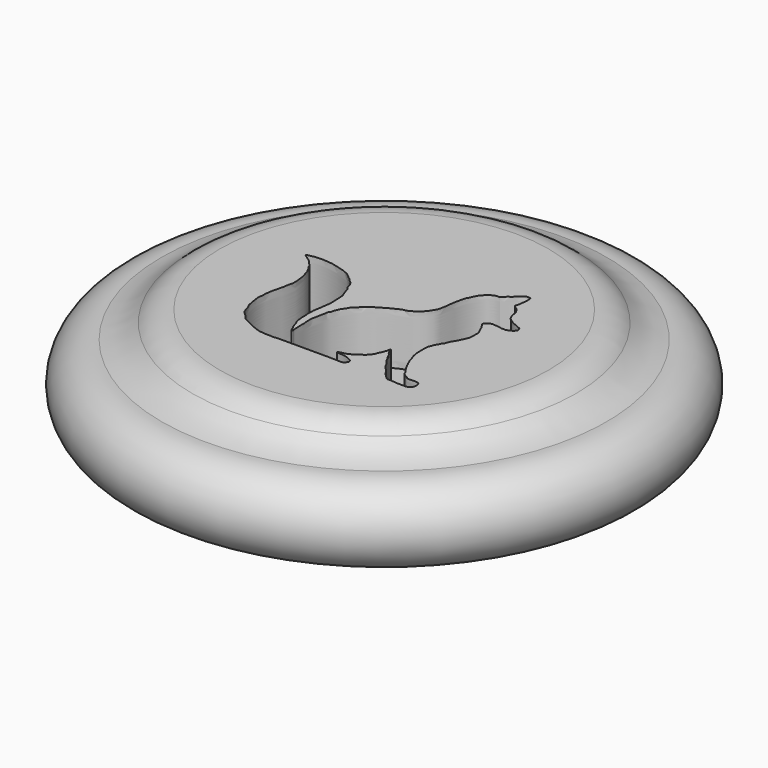
from build123d import *

# Parameters (mm, degrees)
F3_DEPTH = 5.08


with BuildPart() as f1:
    # F0 (on Front) → F1 (revolve)
    with BuildSketch(Plane.XZ):
        with BuildLine():
            ThreePointArc((0, 7.6084310639), (-4.0198670689, 3.8042155319), (0, 0))
            Line((0, 0), (21.59, 0))
            Line((21.59, 0), (21.59, 10.16))
            Line((21.59, 10.16), (5.6540897761, 10.16))
            ThreePointArc((5.6540897761, 10.16), (4.2001552919, 9.8716721193), (2.9662784709, 9.0503278297))
            ThreePointArc((2.9662784709, 9.0503278297), (1.6034140011, 8.0819494945), (0, 7.6084310639))
        make_face()
    revolve(axis=Axis((21.59, 0, 5.08), (0, 0, 1)))

    # F2 (on face) → F3 (cut)
    with BuildSketch(Plane.XY.offset(10.16)):
        with BuildLine():
            add(Edge.make_bspline(
                [(18.0297233164, -8.7346183136), (18.1643601349, -8.7041673221), (18.9693362148, -8.685781853), (24.1132707655, -8.6955881173), (24.5645711714, -8.7765729694), (24.9024322454, -8.4013178101), (24.8087548638, -8.1218401008), (24.5840998157, -8.0399305878), (24.2994514923, -7.8548788053), (23.989454065, -7.8032668452), (23.7698681839, -7.7452183564), (23.5164484232, -7.7599499618), (22.9363389551, -7.6459562187), (23.467360104, -7.5537439409), (23.7160238709, -7.4737669158), (23.970579175, -7.4479348573), (24.2626188631, -7.2491261781), (24.4991507113, -7.1386157317), (24.7352692386, -6.9674181255), (24.9202430864, -6.8020541015), (25.1169114094, -6.7421361628), (25.2514144916, -6.5257536577), (25.4362070246, -6.3572750627), (25.5859784679, -6.1349371605), (25.6764408582, -5.8247365948), (25.834446882, -5.5864838537), (25.9047450542, -5.283270193), (26.0059922326, -5.0968509668), (26.0187173767, -4.6441613063), (26.1652814669, -5.017772407), (26.2409104018, -5.2767583045), (26.4206824725, -5.4827743864), (26.5383017493, -5.6024574333), (26.6124220488, -5.8235976192), (26.7356120717, -6.0183855219), (26.8781982776, -6.2353630395), (26.9530737649, -6.4779170827), (27.1642364941, -6.6578190469), (27.3526418048, -6.9188572477), (27.4243382781, -7.156885594), (27.6323740878, -7.3699248689), (27.8191529876, -7.5963472147), (28.0494134258, -7.8178116992), (28.19152305, -8.141617624), (28.406453433, -8.3015411802), (28.5151047317, -8.4746770231), (28.7176579761, -8.5723269017), (28.8113740517, -8.7841776917), (29.1201345067, -8.7470824343), (29.2156242625, -8.7912965926), (30.8648074976, -8.8871728338), (30.9615032244, -8.7292274231), (31.2182989536, -8.6812403272), (31.2429395039, -8.3973320915), (31.3069802149, -8.2272848802), (31.2750365727, -7.9933319391), (31.1853866283, -7.8089191972), (30.9055817145, -7.733248604), (30.7633106624, -7.7036645488), (29.9182575621, -7.8006554571), (29.8675076257, -7.5421662989), (29.6764705868, -7.5591265103), (29.5548794252, -7.4138364865), (29.3222232065, -7.2626767173), (29.272539799, -6.9873736885), (29.1216371848, -6.8592544126), (29.0295348164, -6.6772306035), (28.8862782978, -6.4861468243), (28.7601745896, -6.1988301865), (28.6269322849, -6.0120895454), (28.5653025774, -5.8113526719), (28.483261185, -5.7101576571), (28.4432339035, -5.5662421819), (28.3562378099, -5.4469496199), (28.3019486102, -5.1371032668), (28.1914978801, -4.8534779732), (28.0738021465, -4.5796262233), (28.0203644864, -4.2790292382), (27.9679118452, -4.0228208467), (27.9876495432, -3.7629929562), (27.9616244669, -3.5382337128), (27.9689432237, -3.3515999173), (27.962893953, -3.0951782823), (27.9782352721, -2.8358147346), (27.9954931188, -2.6680801379), (28.0886714992, -2.4636153964), (28.1499520975, -2.2846019693), (28.201924263, -2.1053638104), (28.3155456744, -2.0074106022), (28.3923950838, -1.8550157574), (28.4443402308, -1.6522898295), (28.6333412188, -1.5222819038), (28.6920243164, -1.2534290391), (28.769178041, -1.1190491066), (28.8695554038, -0.8397608584), (29.0348092702, -0.6634419349), (29.1316755089, -0.4440851831), (29.2115318923, -0.2797310848), (29.3398736017, 0.0014953994), (29.4724325893, 0.2716620618), (29.5510067047, 0.4520996449), (29.5497918858, 0.7035429598), (29.5513621708, 0.8872364794), (29.5452627418, 1.1414338695), (29.5682683829, 1.4605227672), (29.5028413205, 1.6051890199), (29.4003796448, 1.772321024), (29.3438904357, 1.9255237588), (29.253770527, 2.0855275704), (29.1748485641, 2.3569682826), (29.0333483214, 2.5062829317), (28.9594858799, 2.6619427285), (28.8401293684, 2.7867191179), (28.9139446446, 2.9213641573), (29.1198522881, 3.0168623491), (29.2122862407, 3.1731958707), (29.3614373656, 3.247169709), (29.5799516431, 3.2644657717), (29.6913037051, 3.2259212184), (29.8962815884, 3.2432524548), (30.0844756821, 3.2168409592), (30.2840256429, 3.1931141361), (30.4380195584, 3.1058913974), (30.5856853286, 3.1393078551), (30.7812083008, 3.1308862788), (30.9155338403, 3.1288554084), (31.1176749022, 3.2349434518), (31.2664011173, 3.3155646688), (31.4501583736, 3.3731795547), (31.5311337215, 3.539197887), (31.6700923705, 3.6713295118), (31.5673000631, 3.8016776445), (31.5378068832, 4.0411296781), (31.3226140299, 4.0243740716), (31.1468314449, 4.1471232945), (30.9508013176, 4.2752181252), (30.7666961259, 4.2916399264), (30.5487739194, 4.4055939149), (30.3483992907, 4.5342610257), (30.1430288665, 4.7059888869), (29.9822316753, 4.7939884906), (29.8475284695, 5.066569057), (29.7629298346, 5.269156564), (29.7227521441, 5.5880965134), (29.7051758544, 5.8689179272), (29.5523552178, 6.0237686489), (29.4692218193, 6.2462038736), (29.2406776307, 6.4168064892), (29.1134928507, 6.4931083359), (29.001784894, 6.6117442856), (28.9021354666, 6.6382987672), (29.0035118446, 6.8623291435), (29.0446615563, 7.0393320268), (29.0471539189, 7.1744714462), (29.0582925736, 7.3361937323), (29.1259239086, 7.6790647273), (29.127884306, 7.7964647676), (29.1298621458, 7.9986688784), (29.1191355074, 8.2174542453), (29.0780436009, 8.4109047475), (28.9096404859, 8.3710734478), (28.7154885392, 8.4254476096), (28.6300794193, 8.3329552343), (28.4980921458, 8.2882066329), (28.3588553835, 8.2014702118), (28.1526331171, 8.012082982), (28.0494581967, 7.8816010782), (27.7832383112, 7.596568909), (27.5455071816, 7.511783948), (27.4372047117, 7.2701972009), (27.2321290693, 7.1357951802), (27.1919070575, 7.0526153929), (27.0463129523, 7.0542640215), (26.8800730348, 7.0717843622), (26.7140548493, 7.0032262487), (26.6054801161, 7.0011261318), (26.494534113, 6.9140943175), (26.3784661745, 6.860319439), (26.2087785414, 6.6995485266), (26.039638022, 6.5787596521), (25.8967104287, 6.4266394433), (25.7858373757, 6.2902785891), (25.6776110415, 6.1474107156), (25.5954590519, 5.9698794335), (25.5174697978, 5.8291655043), (25.4293120168, 5.5680080217), (25.2808824928, 5.3616353396), (25.1981142031, 5.102632308), (25.1498264104, 4.8463916666), (25.0790054868, 4.5148147695), (25.0032574872, 4.2425892769), (24.9824972589, 3.9173805826), (24.912345742, 3.6584389032), (24.9198257387, 3.3618132392), (24.8663295559, 3.1599452575), (24.8058582866, 2.8040684945), (24.7699046125, 2.6019537361), (24.6706660752, 2.4342469658), (24.5687324345, 2.2579997465), (24.4734637378, 2.1462595928), (24.3592688162, 1.911871286), (24.2262584508, 1.7971954747), (24.0810258729, 1.5850548904), (23.8854208099, 1.4493000393), (23.7450805426, 1.2906638218), (23.5661941839, 1.2271246333), (23.3789608247, 1.0738873734), (23.2447531068, 1.0300890518), (23.0617056475, 0.9180854652), (22.8684865415, 0.8805949834), (22.6562556999, 0.8702382668), (22.4974690686, 0.7758588781), (22.3481504104, 0.7000970658), (22.1707707464, 0.6255342691), (22.0424734211, 0.563913235), (21.8856245982, 0.4860374147), (21.7193348782, 0.392271253), (21.4931379292, 0.290395685), (21.3340174875, 0.1388193258), (20.7936088215, -0.128437255), (20.6786241516, -0.2484735535), (20.5261617329, -0.334222115), (20.4471174168, -0.4474795513), (20.267412594, -0.5018934405), (20.116441651, -0.6106436316), (20.0053179162, -0.7584522661), (19.8762550679, -0.8964229931), (19.712023438, -1.0338566871), (19.5536980153, -1.1464493683), (19.425132713, -1.3073822876), (19.3156749439, -1.4739936481), (19.2126828138, -1.6931729778), (19.0702528759, -1.8587753364), (18.9878436856, -1.9628893181), (18.9003727713, -2.1884160396), (18.7821108215, -2.4078008497), (18.7182120994, -2.6213869835), (18.6891118897, -2.8701513843), (18.4927543511, -3.0121150196), (18.5101339338, -3.2573144902), (18.4435979841, -3.5620739551), (18.3979330502, -3.7413514299), (18.3548850425, -3.9640588505), (18.3140891334, -4.1737038266), (18.28296694, -4.3620404177), (18.2641017355, -4.3857706259), (18.2136014858, -4.695403401), (18.2288533511, -4.8761561543), (18.222250662, -5.0412973104), (18.2346016788, -5.2678745776), (18.2470331909, -5.335386261), (18.2867587859, -5.5902697939), (18.2816216503, -5.7375648139), (18.2657064265, -5.8723415495), (18.2648481051, -6.0946958542), (18.2810535453, -6.1759871144), (18.2922723623, -6.3270619846), (18.2907692998, -6.3945094454), (18.2843520631, -6.6329484126), (18.3080481704, -6.7626713532), (18.2896452698, -6.8839880595), (18.4124601468, -7.0403903414), (18.1619085903, -7.0282859552), (18.1011661382, -6.7437222363), (18.0468789821, -6.6295245966), (17.9519175877, -6.4964547956), (17.9352992215, -6.3283083561), (17.8508103393, -6.25244966), (17.8265184936, -6.0175537277), (17.7358957612, -5.8733429213), (17.6760437034, -5.7029442039), (17.6326575024, -5.6494467559), (17.555978193, -5.3719093952), (17.572410708, -5.0854968219), (17.4891048096, -4.8371375163), (17.5408291249, -4.6614969248), (17.5413524048, -4.4484094958), (17.4658182829, -4.0646287049), (17.5216760833, -3.8440224367), (17.5023568934, -3.6030989721), (17.5282910203, -3.3906073397), (17.5623761738, -3.1776005563), (17.5764021469, -3.131730973), (17.6099876246, -2.9555886421), (17.653697199, -2.6905755297), (17.6611749089, -2.5689439901), (17.6701882347, -2.4531732399), (17.6988945946, -2.3362178885), (17.7120312724, -2.1320017472), (17.7397575241, -2.0145364862), (17.7620164302, -1.8401268874), (17.7727168179, -1.6424506113), (17.7686926589, -1.4261166976), (17.7737494797, -1.1572242637), (17.7584582072, -0.8609531439), (17.7532208056, -0.6820456592), (17.7109745294, -0.4012020517), (17.7035039642, -0.1888844096), (17.6449484958, -0.0030351075), (17.5633375357, 0.1860374076), (17.5049472459, 0.2972219977), (17.3964293605, 0.6572371432), (17.3615821262, 0.8314025871), (17.2906098047, 0.9334764849), (17.2644214999, 0.97928106), (17.0502973934, 1.2056530957), (17.0961920829, 1.4406658041), (16.9566894189, 1.6627383145), (16.8593474264, 1.8420719882), (16.7576499485, 1.9082137816), (16.6515383342, 2.0297363011), (16.4777000799, 2.1067196105), (16.4728306235, 2.2712112721), (16.302703931, 2.3141625554), (16.2038689146, 2.4430610739), (16.0273328218, 2.5541939388), (15.8557718032, 2.7124664906), (15.6300237349, 2.8779129467), (15.4244467409, 2.9262201878), (15.2279077194, 3.0649235179), (14.9929664079, 3.1000685889), (14.7766448141, 3.1731641312), (14.55024292, 3.2404086645), (14.3544539908, 3.2906742007), (14.0501193365, 3.3473423692), (13.78710555, 3.4320845068), (13.5772938838, 3.4281502235), (13.3267642919, 3.4736664626), (13.1451686061, 3.4841633835), (12.8883312988, 3.5074270712), (12.6798620168, 3.4981164421), (12.5330992434, 3.5116770525), (12.338290304, 3.4532367804), (12.0083252418, 3.4708245664), (11.813069689, 3.3963590543), (11.5993909121, 3.37257987), (11.474216752, 3.3426596043), (11.2061679258, 3.2746033489), (11.5746271909, 3.124975823), (11.6770735815, 3.0245353202), (11.8073778972, 2.9474003899), (11.9155343977, 2.8352827804), (12.0306398314, 2.7844804365), (12.1533653021, 2.6552954603), (12.2989296055, 2.5404185438), (12.415663954, 2.3565912615), (12.5266548853, 2.2703256347), (12.6981180424, 2.0996800363), (12.7278664464, 1.8995914717), (12.7793031525, 1.8197207111), (12.9449708077, 1.625734145), (13.0279628604, 1.4515152138), (13.0656405215, 1.3202280647), (13.1460401193, 1.2525595409), (13.2132627737, 0.999640123), (13.2459873705, 0.8655074482), (13.2736694695, 0.7979234993), (13.3626748965, 0.5239903706), (13.4125668602, 0.2623493232), (13.4474561313, 0.0034710101), (13.4658517068, -0.2061667788), (13.5032890656, -0.3875642331), (13.4809392745, -0.6670860054), (13.5245010065, -0.9302903232), (13.4507294017, -1.1226889589), (13.4185084352, -1.3455925082), (13.3511285115, -1.5048916333), (13.3515421458, -1.759857181), (13.28557643, -2.0330644452), (13.2127709225, -2.2779167181), (13.1532086361, -2.4996028237), (13.0965605921, -2.7190823875), (13.0193999022, -3.0611928457), (13.0121493395, -3.2132378736), (12.9217539891, -3.5583252767), (12.9714585223, -3.7719916248), (12.932968724, -4.0624603461), (12.90801305, -4.2569855327), (12.8935419656, -4.4866827399), (12.9070884056, -4.7518931957), (12.9797719894, -4.8984273034), (12.9752981655, -5.0521842603), (13.006505948, -5.3181509698), (13.0829865371, -5.5377967797), (13.0948110128, -5.7605972073), (13.1887447001, -5.9625288132), (13.3199141189, -6.1751692373), (13.4081657685, -6.5314762043), (13.4599745392, -6.6930449917), (13.5011714292, -6.8959519334), (13.7655612964, -7.1000405909), (13.8674726905, -7.2252882346), (13.9673005309, -7.2830940415), (14.0233910638, -7.3949555231), (14.1505407084, -7.5214537023), (14.2569553525, -7.6532186738), (14.4320383659, -7.821451285), (14.6307053507, -7.8625647663), (14.8528863962, -7.9941751302), (14.9014178866, -8.0320986547), (15.081977801, -8.1104129745), (15.2120532745, -8.1797385008), (15.3138334604, -8.2220713308), (15.3614190005, -8.2573229518), (15.4617138568, -8.2692421603), (15.5670239635, -8.3670461321), (15.7338974146, -8.4224243466), (15.7917463728, -8.4333882707), (15.9072431784, -8.4833124098), (15.9532337882, -8.5080332309), (16.1012676397, -8.5674030709), (16.1633702512, -8.5748362321), (16.3533108025, -8.6456462601), (16.4892096179, -8.6778232133), (16.5617744356, -8.6890518819), (16.6888127746, -8.6808908091), (16.7371119903, -8.6988974437), (16.8712200438, -8.6967097362), (16.9300451847, -8.7256250363), (17.0203001022, -8.7271666371), (17.0631142344, -8.7434724601), (17.1894287759, -8.7378606199), (17.2325954006, -8.7394716314), (17.3282874127, -8.7371581229), (17.3884936003, -8.7449439922), (17.515242949, -8.7126478897), (17.5570526108, -8.7343522298), (17.6735460627, -8.7371978337), (17.7217846194, -8.7476677664), (17.8989119668, -8.7801382466), (17.9758692467, -8.7467985615), (18.0297233164, -8.7346183136)],
                knots=[0, 0, 0, 0, 0.004894031, 0.0165700814, 0.0200871743, 0.0233249506, 0.025839237, 0.0282755295, 0.0312704403, 0.0341402841, 0.0364998988, 0.0393158679, 0.0424149885, 0.0452925478, 0.0481474738, 0.050670147, 0.0536777717, 0.0563365475, 0.0590908654, 0.0616335763, 0.0638902341, 0.0664165841, 0.0689876319, 0.0716257011, 0.0745204877, 0.0772832617, 0.0800558164, 0.0826355289, 0.0853610611, 0.0878145513, 0.0907093458, 0.0933095116, 0.0954023314, 0.0978251952, 0.100312073, 0.1029156007, 0.1054565164, 0.1081401449, 0.1110288187, 0.1135697304, 0.116321206, 0.1191130064, 0.1220090161, 0.1250349703, 0.127651817, 0.1299313095, 0.1323025783, 0.1346328442, 0.1371933791, 0.1392324894, 0.1456594424, 0.1478682313, 0.150191439, 0.152771156, 0.1550015934, 0.1574265283, 0.1597009985, 0.1622807171, 0.1644812116, 0.1689877459, 0.1711882402, 0.1731652122, 0.1753516916, 0.1780151776, 0.1806418764, 0.1828723216, 0.1851467918, 0.1876694676, 0.1905370322, 0.1930239185, 0.1953231391, 0.1971641055, 0.1990809221, 0.2010344984, 0.2038727463, 0.2067465677, 0.2095397267, 0.2123636069, 0.2149886738, 0.2175988854, 0.2200175783, 0.2222236018, 0.2248338134, 0.2274456881, 0.2295513134, 0.2319466399, 0.234218598, 0.2363878817, 0.2383334679, 0.2404327255, 0.2427319461, 0.2451379779, 0.2477398293, 0.2498029549, 0.2525386615, 0.2550991985, 0.257552693, 0.2597531905, 0.262607426, 0.2654348081, 0.2677067662, 0.2702238832, 0.2724299178, 0.2750401295, 0.277916445, 0.2799485379, 0.2821843015, 0.2842474272, 0.2864479174, 0.2891587054, 0.2914748006, 0.2936144715, 0.2956103363, 0.297407032, 0.2998361074, 0.3019818022, 0.3040449288, 0.3063959694, 0.3081665832, 0.3104385361, 0.3127155206, 0.3150074061, 0.3171002348, 0.3190668437, 0.321310139, 0.3232014118, 0.3256001301, 0.3277632888, 0.3299264512, 0.3321276791, 0.3341869408, 0.3361296934, 0.3384663059, 0.3406018004, 0.3429884847, 0.3454425909, 0.3476250408, 0.3501268199, 0.3526783502, 0.3552960714, 0.3574869341, 0.360232267, 0.3626841444, 0.3655820357, 0.3682703731, 0.3705789194, 0.3730679729, 0.3757563259, 0.3777833699, 0.3798143606, 0.3811880934, 0.3835409161, 0.3858203269, 0.3876282597, 0.3897419595, 0.3927446805, 0.3945526268, 0.3967978589, 0.3992961297, 0.4013271222, 0.4032728609, 0.4055181009, 0.40722705, 0.4090917683, 0.4112031492, 0.4138621627, 0.4160414262, 0.4191824771, 0.4217339993, 0.4243147965, 0.4268059835, 0.4282503925, 0.4300856067, 0.4322333938, 0.4343688757, 0.4360390995, 0.437891839, 0.4397445785, 0.442196454, 0.4445758355, 0.4468985391, 0.4490463309, 0.4512191903, 0.4534576063, 0.4555293484, 0.4581883584, 0.4607986987, 0.4634291946, 0.4660704883, 0.4690376721, 0.4717946238, 0.4746875324, 0.4773758787, 0.4801008029, 0.4824947283, 0.4855515847, 0.4878933597, 0.4901317707, 0.4924158116, 0.4944145604, 0.4969752983, 0.4991545618, 0.5017153028, 0.5042378806, 0.5065491086, 0.5087855544, 0.5112640607, 0.5132087751, 0.5155360946, 0.5178321709, 0.5201722637, 0.5223465296, 0.524461053, 0.526694155, 0.5286388694, 0.5307533928, 0.5330255954, 0.5354969265, 0.5380038348, 0.5419323888, 0.5440906573, 0.5461375316, 0.548015337, 0.5501895975, 0.5524004777, 0.5545903775, 0.5568234877, 0.5591916207, 0.5614568584, 0.563756287, 0.5660523476, 0.5685933695, 0.5709599764, 0.5728190915, 0.5753090641, 0.5778947073, 0.5803232189, 0.5828301203, 0.5851967209, 0.5876680538, 0.5905295392, 0.5927589924, 0.5951586109, 0.5976393135, 0.5997645021, 0.6006892971, 0.6034721593, 0.605761496, 0.6078673607, 0.6102446244, 0.6116714475, 0.6142223166, 0.6162301864, 0.618137946, 0.6205136958, 0.6220743626, 0.623982136, 0.6254019144, 0.6278610427, 0.6297688033, 0.631568196, 0.6334177619, 0.6353485162, 0.6380266338, 0.6399044358, 0.6419393664, 0.6439862439, 0.6456618506, 0.6480746049, 0.6502798141, 0.6523725217, 0.6537235746, 0.656381367, 0.6592244685, 0.6617838635, 0.6638983779, 0.6662741278, 0.6694589599, 0.6719235345, 0.6743826728, 0.6768472484, 0.6791516643, 0.6802663871, 0.6823915644, 0.6851018927, 0.686901277, 0.6885854573, 0.6903952217, 0.6926912907, 0.6945010574, 0.6966155703, 0.6989065986, 0.7012823381, 0.7039761891, 0.7067448011, 0.7089462282, 0.7116493665, 0.7140311536, 0.7162996482, 0.7185656185, 0.7204434324, 0.7235580544, 0.7258038265, 0.7274794207, 0.7286965052, 0.7314179817, 0.7338893132, 0.7364749674, 0.7387710314, 0.7405156655, 0.7425696183, 0.7447278937, 0.7466056934, 0.7485983377, 0.75065229, 0.7529666034, 0.7554773597, 0.7581639013, 0.760511893, 0.762983229, 0.7654667833, 0.7679310391, 0.7703953018, 0.7727120205, 0.7755669627, 0.7782605383, 0.7806122988, 0.7831600113, 0.7853781752, 0.7879768215, 0.790324967, 0.7922422177, 0.7945398356, 0.7974703557, 0.7998504518, 0.8021480696, 0.8041668209, 0.8061827114, 0.8088774904, 0.8109992732, 0.812936197, 0.8149405349, 0.8167450372, 0.8188741571, 0.8211218175, 0.8234645024, 0.8254110396, 0.8279030454, 0.8301402986, 0.8317178179, 0.8342768032, 0.8365916366, 0.838400121, 0.840028869, 0.8426447225, 0.8445382475, 0.8458939394, 0.8485875113, 0.8513301496, 0.8539381546, 0.8562673327, 0.8584592439, 0.861172993, 0.8638070113, 0.8661180496, 0.8685187584, 0.8706405523, 0.873195324, 0.8759379526, 0.8785366087, 0.8809524331, 0.8834534823, 0.8864295318, 0.8885212217, 0.8914874246, 0.8939516943, 0.8966701264, 0.8989580139, 0.9014222735, 0.9040601339, 0.9060817224, 0.9080593167, 0.9107035354, 0.9132045858, 0.9155933368, 0.9179646915, 0.9205713225, 0.9236544828, 0.9257762656, 0.9280362227, 0.9309723163, 0.9330484459, 0.9347088319, 0.9364930457, 0.9386437004, 0.9407943685, 0.9432491672, 0.9456319371, 0.9481548045, 0.9494778486, 0.9516949107, 0.9537493646, 0.9554018636, 0.9566229953, 0.958175056, 0.9601508522, 0.9622550761, 0.9635632382, 0.9653044755, 0.9665844858, 0.9685549848, 0.9699225794, 0.9722033825, 0.9741374411, 0.9755480157, 0.9773168318, 0.9785416662, 0.9803587072, 0.9817263019, 0.9831937114, 0.9843503415, 0.9861191715, 0.9872669376, 0.9887852815, 0.990131143, 0.9919096923, 0.9930663015, 0.9947423275, 0.9959671588, 0.9980424115, 1, 1, 1, 1], degree=3))
        make_face()
    extrude(amount=-F3_DEPTH, mode=Mode.SUBTRACT)


solid = f1.part
